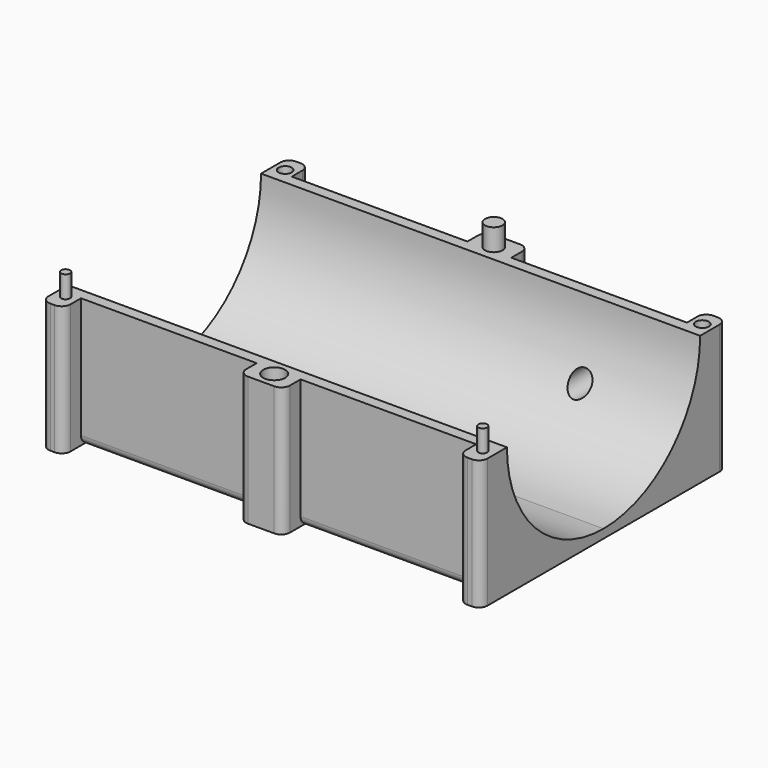
from build123d import *

# Parameters (mm, degrees)
F0_W     = 5
F0_H     = 5
F0_H_2   = 60
F0_W_2   = 10
F0_W_3   = 40
F1_DEPTH = 29.5
F3_DEPTH = 100.001
F4_R     = 1
F5_R     = 2
F6_DEPTH = 5
F4_R_2   = 2.5
F5_R_2   = 1.5
F7_DEPTH = 7
F8_R     = 2.5
F9_DEPTH = 10
F10_R    = 2
F11_R    = 2


with BuildPart() as f1:
    # F0 (on Top) → F1 (new body)
    with BuildSketch(Plane.XY):
        with Locations((47.5, 32.5)):
            Rectangle(F0_W, F0_H)
        with Locations((-47.5, 32.5)):
            Rectangle(F0_W, F0_H)
        with Locations((47.5, 0)):
            Rectangle(F0_W, F0_H_2)
        Polygon((50, -35), (50, -30), (45, -30), (45, -32.5), (45, -35), align=None)
        with Locations((-47.5, 0)):
            Rectangle(F0_W, F0_H_2)
        with Locations((0, 32.5)):
            Rectangle(F0_W_2, F0_H)
        Polygon((5, -32.5), (5, -30), (-5, -30), (-5, -32.5), (-5, -35), (5, -35), align=None)
        with Locations((25, 0)):
            Rectangle(F0_W_3, F0_H_2)
        with Locations((-25, 0)):
            Rectangle(F0_W_3, F0_H_2)
        Rectangle(F0_W_2, F0_H_2)
        Polygon((-45, -32.5), (-45, -30), (-50, -30), (-50, -35), (-45, -35), align=None)
    extrude(amount=F1_DEPTH)

    # F2 (on face) → F3 (cut, through all)
    with BuildSketch(Plane.YZ.offset(50)):
        with BuildLine():
            ThreePointArc((-27.5, 29.5), (-19.4454364826, 10.0545635174), (0, 2))
            Line((0, 2), (0, 29.5))
            Line((0, 29.5), (-27.5, 29.5))
        make_face()
        with BuildLine():
            Line((0, 29.5), (0, 2))
            ThreePointArc((0, 2), (19.4454364826, 10.0545635174), (27.5, 29.5))
            Line((27.5, 29.5), (0, 29.5))
        make_face()
    extrude(amount=-F3_DEPTH, mode=Mode.SUBTRACT)

    # F4 (on face) + F5 (on face) → F6 (join)
    with BuildSketch(Plane.XY.offset(29.5)):
        with Locations((-47.5, -31.25)):
            Circle(F4_R)
        with Locations((47.5, -31.25)):
            Circle(F4_R)
    with BuildSketch(Plane.XY.offset(29.5)):
        with Locations((0, 31.25)):
            Circle(F5_R)
    extrude(amount=F6_DEPTH)

    # F4 (on face) + F5 (on face) → F7 (cut)
    with BuildSketch(Plane.XY.offset(29.5)):
        with Locations((0, -31.25)):
            Circle(F4_R_2)
    with BuildSketch(Plane.XY.offset(29.5)):
        with Locations((-47.5, 31.25)):
            Circle(F5_R_2)
        with Locations((0, 31.25)):
            Circle(F5_R)
        with Locations((47.5, 31.25)):
            Circle(F5_R_2)
    extrude(amount=-F7_DEPTH, mode=Mode.SUBTRACT)

    # F8 (on face) → F9 (cut)
    with BuildSketch(Plane(origin=(0, 30, 0), x_dir=(-1, 0, 0), z_dir=(0, 1, 0))):
        with Locations((-26.3881590217, 14.2105259001)):
            Circle(F8_R)
    extrude(amount=-F9_DEPTH, mode=Mode.SUBTRACT)

    # F10
    f10_edges = [f1.edges().sort_by_distance(p)[0] for p in [
        (50, -35, 14.75),
        (45, -35, 14.75),
        (5, -35, 14.75),
        (-5, -35, 14.75),
        (-45, -35, 14.75),
        (-50, -35, 14.75),
        (45, 35, 14.75),
        (50, 35, 14.75),
        (5, 35, 14.75),
        (-5, 35, 14.75),
        (-45, 35, 14.75),
        (-50, 35, 14.75),
    ]]
    fillet(f10_edges, radius=F10_R)

    # F11
    f11_edges = [f1.edges().sort_by_distance(p)[0] for p in [
        (25, 30, 0),
        (-25, 30, 0),
        (-25, -30, 0),
        (25, -30, 0),
    ]]
    fillet(f11_edges, radius=F11_R)


solid = f1.part
